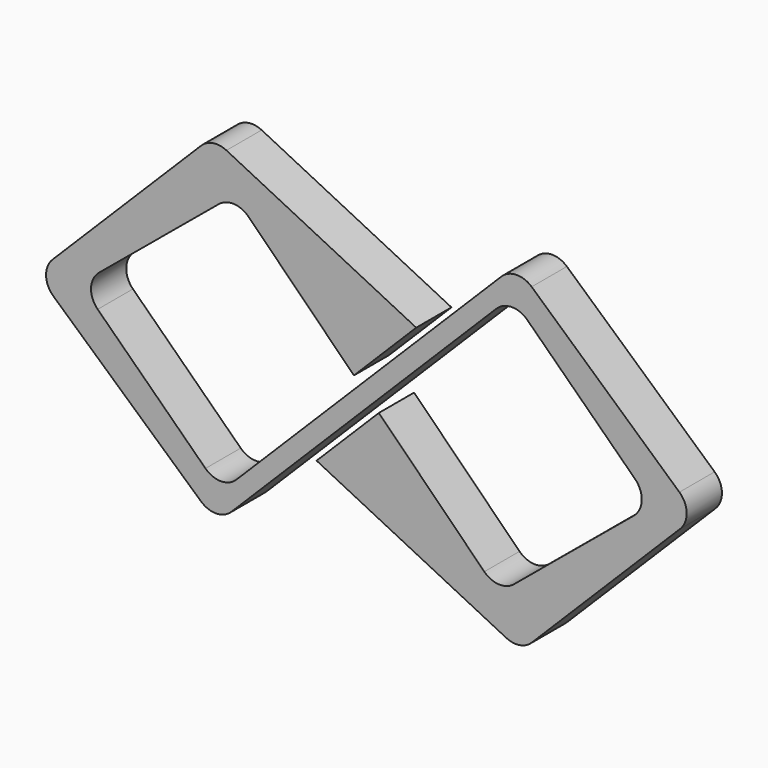
from build123d import *

# Parameters (mm, degrees)
F1_DEPTH = 10
F2_R     = 5
F3_R     = 5


with BuildPart() as f1:
    # F0 (on Front) → F1 (new body)
    with BuildSketch(Plane.XZ):
        Polygon((-75, 0), (-34, -36.828427), (33, 30.171573), (65, -1), (30, -30), (2.828427, -2.828427), (-11.313708, -16.970563), (35, -40), (75, 0), (34, 36.828427), (-33, -30.171573), (-65, 1), (-30, 30), (-2.828427, 2.828427), (11.313708, 16.970563), (-35, 40), align=None)
    extrude(amount=F1_DEPTH)

    # F2
    f2_edges = [f1.edges().sort_by_distance(p)[0] for p in [
        (-30, -5, 30),
        (-65, -5, 1),
        (-33, -5, -30.171573),
        (33, -5, 30.171573),
        (65, -5, -1),
        (30, -5, -30),
    ]]
    fillet(f2_edges, radius=F2_R)

    # F3
    f3_edges = [f1.edges().sort_by_distance(p)[0] for p in [
        (-35, -5, 40),
        (-75, -5, 0),
        (-34, -5, -36.828427),
        (35, -5, -40),
        (75, -5, 0),
        (34, -5, 36.828427),
    ]]
    fillet(f3_edges, radius=F3_R)


solid = f1.part
